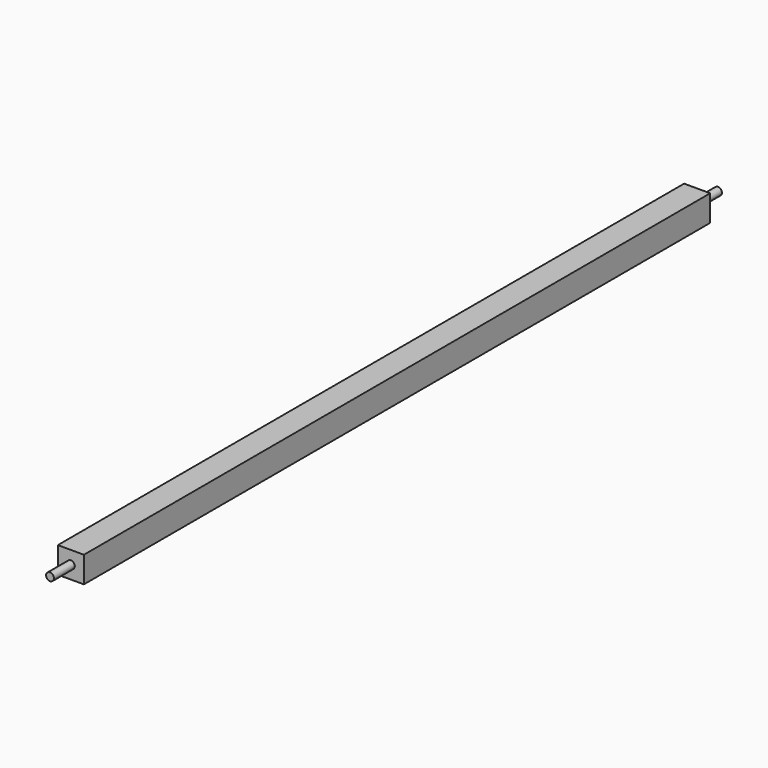
from build123d import *

# Parameters (mm, degrees)
F0_W       = 300
F0_H       = 10
F1_DEPTH   = 5
F2_R       = 1.5
F1_FACE1_W = 10
F1_FACE1_H = 10
F3_DEPTH   = 10
F4_R       = 1.5
F5_DEPTH   = 10


with BuildPart() as f1:
    # F0 (on Right) → F1 (new body, symmetric)
    with BuildSketch(Plane.YZ):
        with Locations((150, 5)):
            Rectangle(F0_W, F0_H)
    extrude(amount=F1_DEPTH, both=True)

    # F2 (on face) + F1_face1 (on face) → F3 (join)
    with BuildSketch(Plane.XZ):
        with Locations((0, 5)):
            Circle(F2_R)
    with BuildSketch(Plane(origin=(0, 300, 5), x_dir=(-1, 0, 0), z_dir=(0, 1, 0))):
        Rectangle(F1_FACE1_W, F1_FACE1_H)
    extrude(amount=F3_DEPTH, dir=(0, -1, 0))

    # F4 (on face) → F5 (join)
    with BuildSketch(Plane(origin=(0, 300, 0), x_dir=(-1, 0, 0), z_dir=(0, 1, 0))):
        with Locations((0, 5)):
            Circle(F4_R)
    extrude(amount=F5_DEPTH)


solid = f1.part
